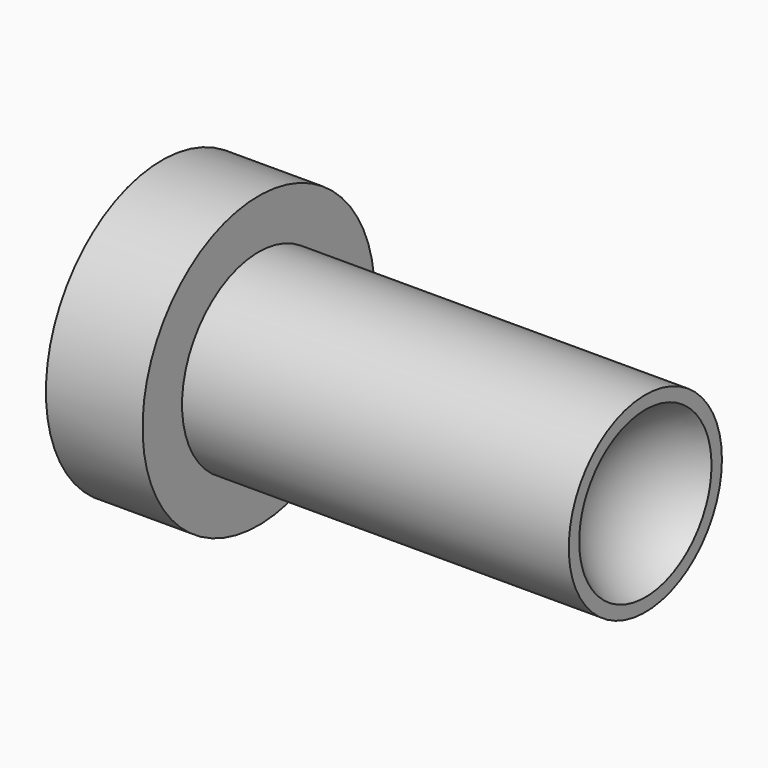
from build123d import *

# Parameters (mm, degrees)
F0_R     = 19.05
F1_DEPTH = 12.7
F2_R     = 12.573
F3_DEPTH = 50.8


with BuildPart() as f1:
    # F0 (on Right) → F1 (new body)
    with BuildSketch(Plane.YZ):
        Circle(F0_R)
    extrude(amount=F1_DEPTH)

    # F2 (on face) → F3 (join)
    with BuildSketch(Plane.YZ.offset(12.7)):
        Circle(F2_R)
    extrude(amount=F3_DEPTH)

    # F5 (on offset) → F6 (revolve, cut)
    with BuildSketch(Plane.YZ.offset(69.85)):
        with BuildLine():
            Line((-12.573, 0), (12.573, 0))
            ThreePointArc((12.573, 0), (0, 12.573), (-12.573, 0))
        make_face()
    revolve(axis=Axis((69.85, 16.413388, 0), (0, 1, 0)), mode=Mode.SUBTRACT)


solid = f1.part
